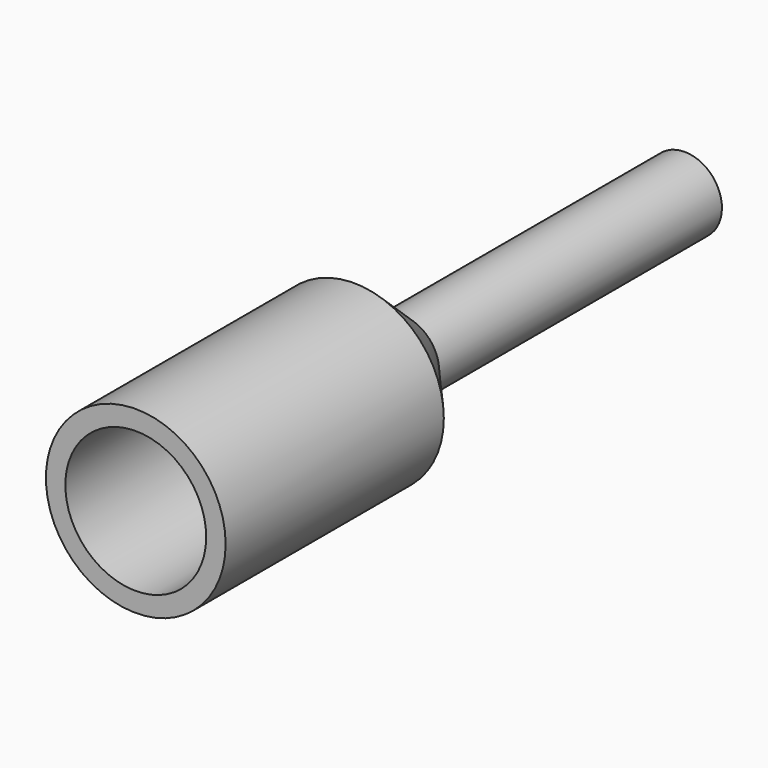
from build123d import *

# Parameters (mm, degrees)
F4_R     = 1.392824
F5_DEPTH = 5.47


with BuildPart() as f1:
    # F0 (on Top) → F1 (revolve)
    with BuildSketch(Plane.XY):
        Polygon((0, 6.578624), (0, 0), (1.776921, 0), (1.776921, 5.393505), (0.736918, 6.578624), align=None)
    revolve(axis=Axis((0, 3.289312, 0), (0, 1, 0)))

    # F4 (on face) → F5 (cut)
    with BuildSketch(Plane.XZ):
        Circle(F4_R)
    extrude(amount=-F5_DEPTH, mode=Mode.SUBTRACT)


with BuildPart() as f3:
    # F2 (on Right) → F3 (revolve)
    with BuildSketch(Plane.YZ):
        Polygon((6.568849, 0.736331), (6.580418, 0), (13.568849, 0), (13.568849, 0.736331), align=None)
    revolve(axis=Axis((0, 10.074633, 0), (0, 1, 0)))


solid = Compound([f1.part, f3.part])
